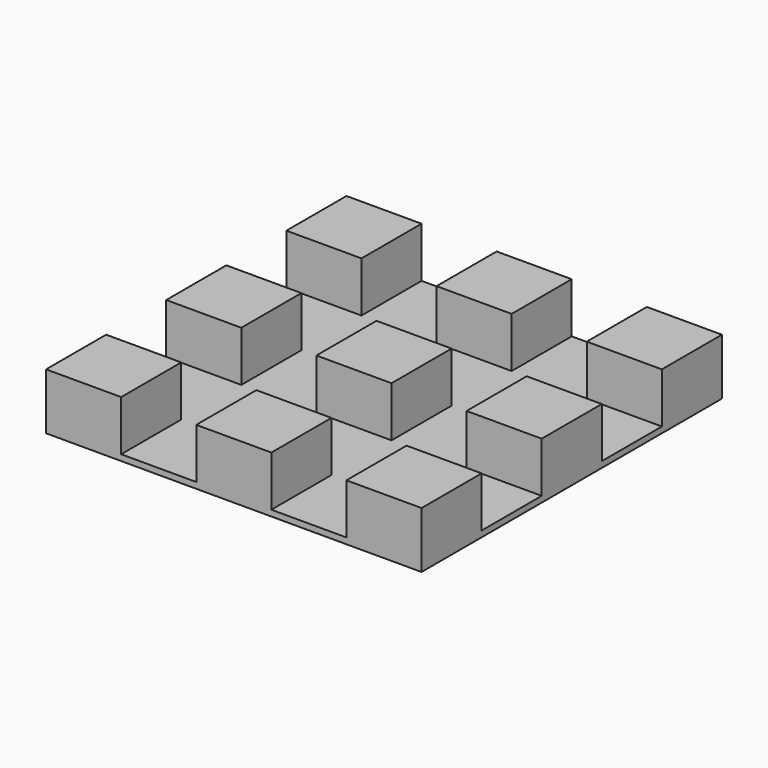
from build123d import *

# Parameters (mm, degrees)
F0_W     = 5.08
F0_H     = 5.08
F1_DEPTH = 0.4064
F2_DEPTH = 3.81


with BuildPart() as f1:
    # F0 (on Top) → F1 (new body)
    with BuildSketch(Plane.XY):
        Polygon((-2.54, 12.7), (-7.62, 12.7), (-7.62, 7.62), (-12.7, 7.62), (-12.7, 2.54), (-7.62, 2.54), (-7.62, -2.54), (-12.7, -2.54), (-12.7, -7.62), (-7.62, -7.62), (-7.62, -12.7), (-2.54, -12.7), (-2.54, -7.62), (2.54, -7.62), (2.54, -12.7), (7.62, -12.7), (7.62, -7.62), (12.7, -7.62), (12.7, -2.54), (7.62, -2.54), (7.62, 2.54), (12.7, 2.54), (12.7, 7.62), (7.62, 7.62), (7.62, 12.7), (2.54, 12.7), (2.54, 7.62), (-2.54, 7.62), align=None)
        Rectangle(F0_W, F0_H, mode=Mode.SUBTRACT)
    extrude(amount=F1_DEPTH)

    # F0 (on Top) → F2 (join)
    with BuildSketch(Plane.XY):
        with Locations((-10.16, -10.16)):
            Rectangle(F0_W, F0_H)
        with Locations((-10.16, 0)):
            Rectangle(F0_W, F0_H)
        with Locations((-10.16, 10.16)):
            Rectangle(F0_W, F0_H)
        with Locations((0, 10.16)):
            Rectangle(F0_W, F0_H)
        Rectangle(F0_W, F0_H)
        with Locations((10.16, 0)):
            Rectangle(F0_W, F0_H)
        with Locations((10.16, 10.16)):
            Rectangle(F0_W, F0_H)
        with Locations((10.16, -10.16)):
            Rectangle(F0_W, F0_H)
        with Locations((0, -10.16)):
            Rectangle(F0_W, F0_H)
    extrude(amount=F2_DEPTH)


solid = f1.part
